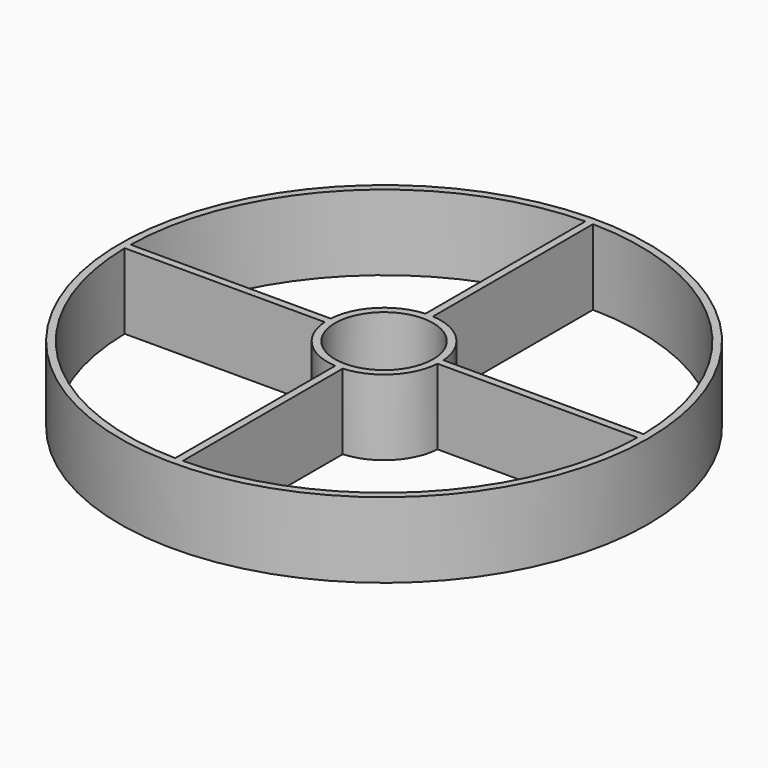
from build123d import *

# Parameters (mm, degrees)
F0_R     = 44.45
F0_R_2   = 8.255
F1_DEPTH = 12.7


with BuildPart() as f1:
    # F0 (on Top) → F1 (new body)
    with BuildSketch(Plane.XY):
        Circle(F0_R)
        with BuildLine():
            ThreePointArc((-0.635, -43.175331), (-30.532871, -30.532871), (-43.175331, -0.635))
            Line((-43.175331, -0.635), (-9.50381, -0.635))
            ThreePointArc((-9.50381, -0.635), (-6.735192, -6.735192), (-0.635, -9.50381))
            Line((-0.635, -9.50381), (-0.635, -43.175331))
        make_face(mode=Mode.SUBTRACT)
        with BuildLine():
            ThreePointArc((0.635, -9.50381), (6.735192, -6.735192), (9.50381, -0.635))
            Line((9.50381, -0.635), (43.175331, -0.635))
            ThreePointArc((43.175331, -0.635), (30.532871, -30.532871), (0.635, -43.175331))
            Line((0.635, -43.175331), (0.635, -9.50381))
        make_face(mode=Mode.SUBTRACT)
        with BuildLine():
            ThreePointArc((-43.175331, 0.635), (-30.532871, 30.532871), (-0.635, 43.175331))
            Line((-0.635, 43.175331), (-0.635, 9.50381))
            ThreePointArc((-0.635, 9.50381), (-6.735192, 6.735192), (-9.50381, 0.635))
            Line((-9.50381, 0.635), (-43.175331, 0.635))
        make_face(mode=Mode.SUBTRACT)
        Circle(F0_R_2, mode=Mode.SUBTRACT)
        with BuildLine():
            Line((43.175331, 0.635), (9.50381, 0.635))
            ThreePointArc((9.50381, 0.635), (6.735192, 6.735192), (0.635, 9.50381))
            Line((0.635, 9.50381), (0.635, 43.175331))
            ThreePointArc((0.635, 43.175331), (30.532871, 30.532871), (43.175331, 0.635))
        make_face(mode=Mode.SUBTRACT)
    extrude(amount=F1_DEPTH)


solid = f1.part
